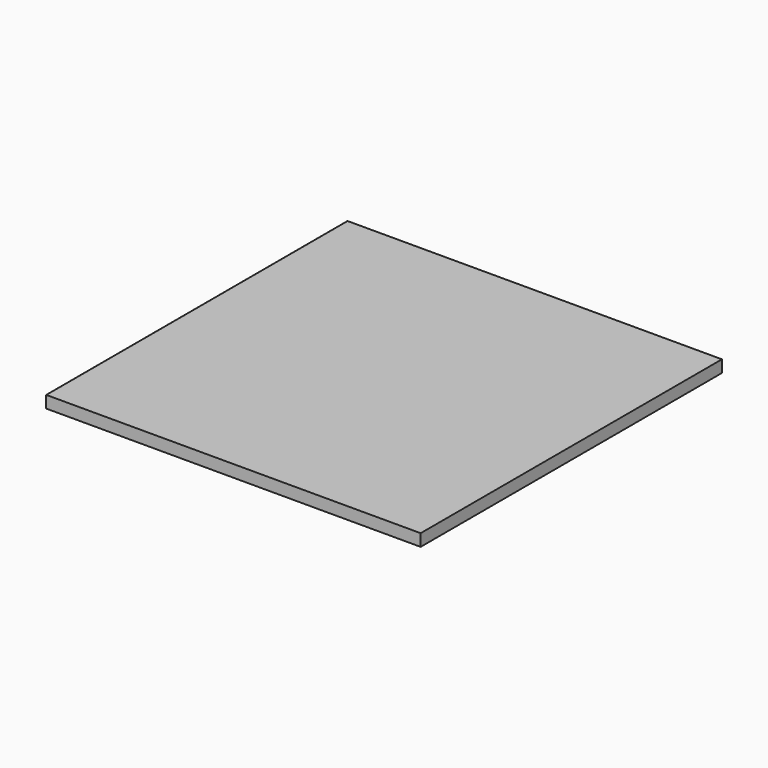
from build123d import *

# Parameters (mm, degrees)
F0_W     = 560
F0_H     = 562
F1_DEPTH = 9
F2_R     = 2


with BuildPart() as f1:
    # F0 (on Top) → F1 (new body, symmetric)
    with BuildSketch(Plane.XY):
        Rectangle(F0_W, F0_H)
    extrude(amount=F1_DEPTH, both=True)

    # F2
    f2_edges = [f1.edges().sort_by_distance(p)[0] for p in [
        (-280, 281, 0),
        (-280, 0, -9),
        (-280, -281, 0),
        (-280, 0, 9),
    ]]
    fillet(f2_edges, radius=F2_R)


solid = f1.part
